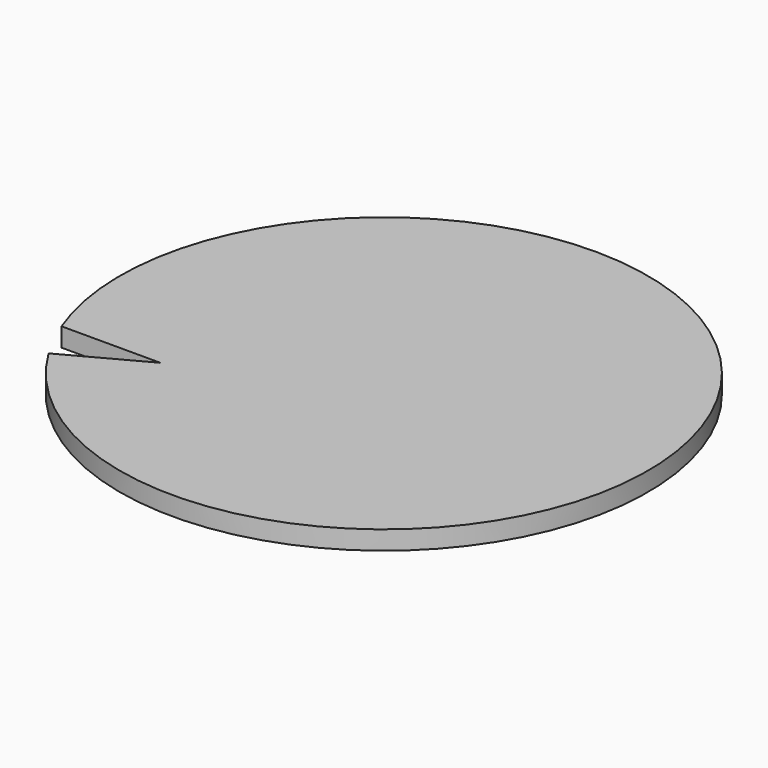
from build123d import *

# Parameters (mm, degrees)
F1_DEPTH = 2.286
F2_DEPTH = 2.286


with BuildPart() as f1:
    # F0 (on Top) → F1 (new body)
    with BuildSketch(Plane.XY):
        with BuildLine():
            Line((-134.244251, 5.108605), (-143.731942, 0))
            ThreePointArc((-143.731942, 0), (-87.586072, 30.837658), (-146.248971, 5.108605))
            Line((-146.248971, 5.108605), (-134.244251, 5.108605))
        make_face()
    extrude(amount=F1_DEPTH)

    # F0 (on Top) → F2 (join)
    with BuildSketch(Plane.XY):
        with BuildLine():
            Line((-134.244251, 5.108605), (-143.731942, 0))
            ThreePointArc((-143.731942, 0), (-87.586072, 30.837658), (-146.248971, 5.108605))
            Line((-146.248971, 5.108605), (-134.244251, 5.108605))
        make_face()
    extrude(amount=F2_DEPTH)


solid = f1.part
